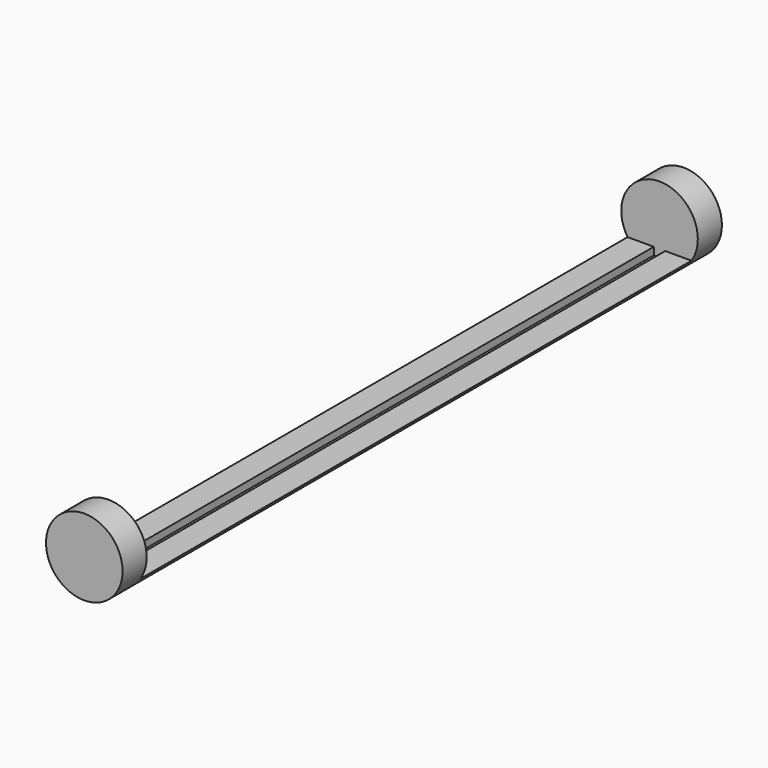
from build123d import *

# Parameters (mm, degrees)
F1_DEPTH = 114.3
F2_R     = 12.7
F3_DEPTH = 10
F4_W     = 3.81
F4_H     = 2.5
F5_DEPTH = 114.3


with BuildPart() as f1:
    # F0 (on Front) → F1 (new body)
    with BuildSketch(Plane.XZ):
        with BuildLine():
            Line((10.596698, -7), (-10.596698, -7))
            ThreePointArc((-10.596698, -7), (0, -12.7), (10.596698, -7))
        make_face()
    extrude(amount=F1_DEPTH)

    # F2 (on face) → F3 (join)
    with BuildSketch(Plane.XZ.offset(114.3)):
        Circle(F2_R)
    extrude(amount=F3_DEPTH)

    # F4 (on face) → F5 (cut)
    with BuildSketch(Plane(origin=(0, 0, 0), x_dir=(-1, 0, 0), z_dir=(0, 1, 0))):
        with Locations((0, -8.25)):
            Rectangle(F4_W, F4_H)
    extrude(amount=-F5_DEPTH, mode=Mode.SUBTRACT)

    # F6: F1 across face


with BuildPart() as f1_1:
    add(f1.part)
    add(f1.part.mirror(Plane(origin=(0, 0, -9.466797), x_dir=(1, 0, 0), z_dir=(0, 1, 0))))


solid = f1_1.part
